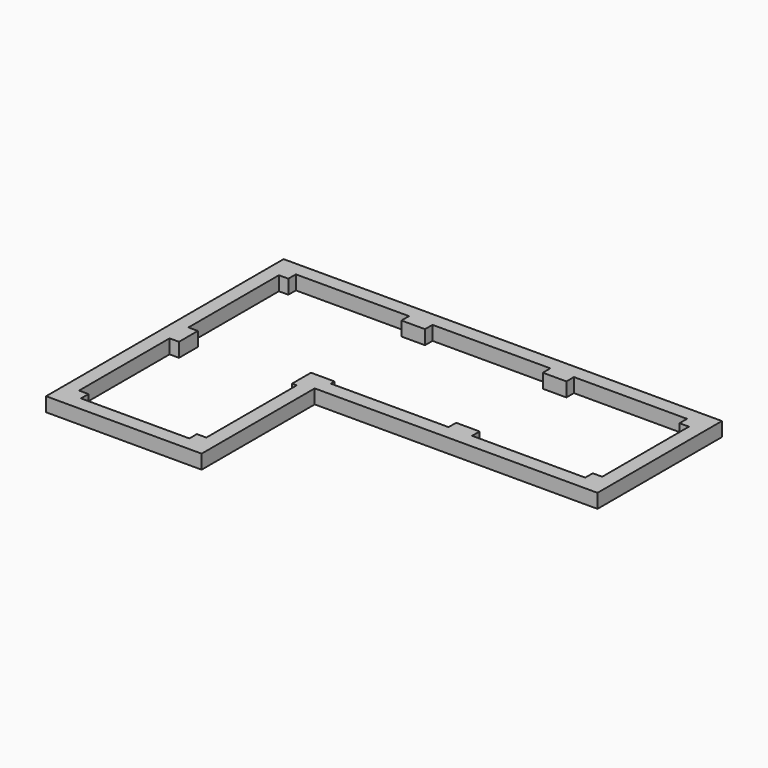
from build123d import *

# Parameters (mm, degrees)
F1_DEPTH = 300


with BuildPart() as f1:
    # F0 (on Top) → F1 (new body)
    with BuildSketch(Plane.XY):
        Polygon((5417.917845, 3150), (-3882.082155, 3150), (-3882.082155, -3150), (-582.082155, -3150), (-582.082155, -150), (5417.917845, -150), align=None)
        Polygon((-3382.082155, 2650), (-3382.082155, 2850), (-982.082155, 2850), (-982.082155, 2650), (-482.082155, 2650), (-482.082155, 2850), (2017.917845, 2850), (2017.917845, 2650), (2517.917845, 2650), (2517.917845, 2850), (4917.917845, 2850), (4917.917845, 2650), (5117.917845, 2650), (5117.917845, 350), (4917.917845, 350), (4917.917845, 150), (2517.917845, 150), (2517.917845, 350), (2017.917845, 350), (2017.917845, 150), (-482.082155, 150), (-482.082155, 250), (-982.082155, 250), (-982.082155, -250), (-882.082155, -250), (-882.082155, -2650), (-1082.082155, -2650), (-1082.082155, -2850), (-3382.082155, -2850), (-3382.082155, -2650), (-3582.082155, -2650), (-3582.082155, -250), (-3382.082155, -250), (-3382.082155, 250), (-3582.082155, 250), (-3582.082155, 2650), align=None, mode=Mode.SUBTRACT)
    extrude(amount=-F1_DEPTH)


solid = f1.part
